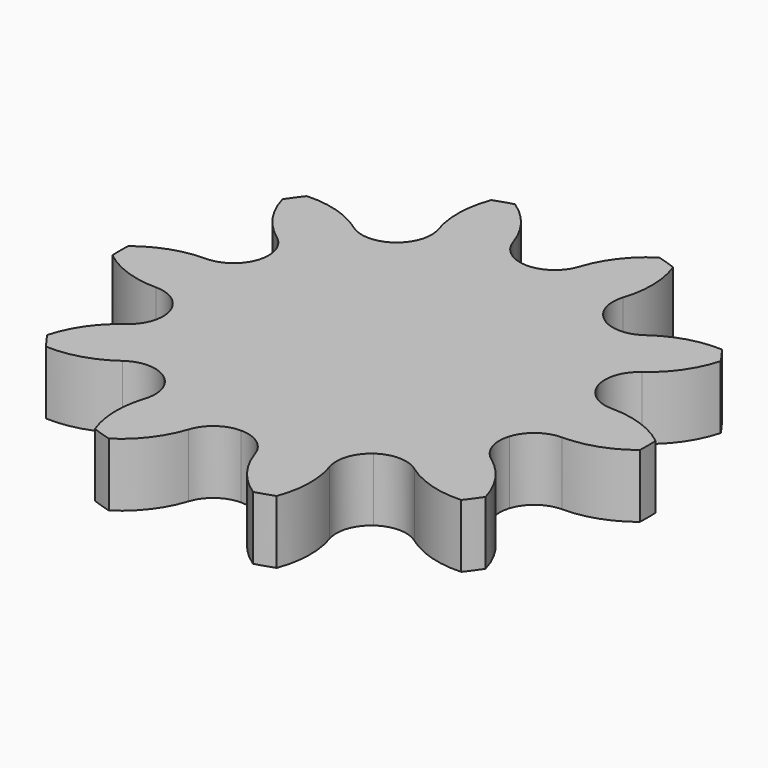
from build123d import *

# Parameters (mm, degrees)
F1_DEPTH = 3.048
F2_COUNT = 10


with BuildPart() as f1:
    # F0 (on Top) → F1 (new body)
    with BuildSketch(Plane.XY):
        with BuildLine():
            ThreePointArc((0, 8.598116), (-0.985363, 8.91828), (-1.594351, 9.75648))
            ThreePointArc((-1.594351, 9.75648), (-2.322928, 11.1463), (-3.470461, 12.216624))
            ThreePointArc((-3.470461, 12.216624), (-3.924516, 12.078418), (-4.373089, 11.923342))
            ThreePointArc((-4.373089, 11.923342), (-4.672342, 10.382929), (-4.444858, 8.830294))
            ThreePointArc((-4.444858, 8.830294), (-4.444858, 7.794222), (-5.053846, 6.956022))
            Line((-5.053846, 6.956022), (0, 0))
            Line((0, 0), (0, 8.598116))
        make_face()
    extrude(amount=F1_DEPTH)

    # F2: F1 ×10 about axis
    f2_axis = Axis((0, 0, 1.524), (0, 0, 1))


with BuildPart() as f1_1:
    add(f1.part)
    for i in range(1, F2_COUNT):
        add(f1.part.rotate(f2_axis, i * 360 / F2_COUNT))


solid = f1_1.part
